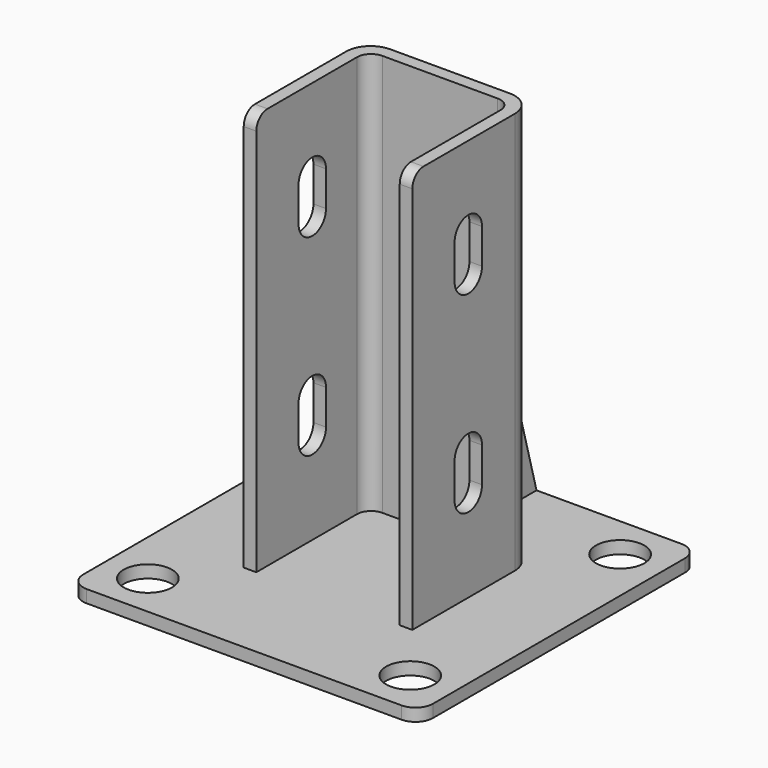
from build123d import *

# Parameters (mm, degrees)
SKETCH_W     = 100
SKETCH_H     = 100
SKETCH_R     = 6.9
PAD_DEPTH    = 3.6
PAD001_DEPTH = 115
POCKET_DEPTH = 74.101
PAD002_DEPTH = 3.6
FILLET_R     = 5
FILLET001_R  = 4
FILLET002_R  = 7


with BuildPart() as part:
    # Sketch → Pad (new body)
    with BuildSketch(Plane.XY):
        Rectangle(SKETCH_W, SKETCH_H)
        with Locations((37.5, 37.5)):
            Circle(SKETCH_R, mode=Mode.SUBTRACT)
        with Locations((-37.5, 37.5)):
            Circle(SKETCH_R, mode=Mode.SUBTRACT)
        with Locations((37.5, -37.5)):
            Circle(SKETCH_R, mode=Mode.SUBTRACT)
        with Locations((-37.5, -37.5)):
            Circle(SKETCH_R, mode=Mode.SUBTRACT)
    extrude(amount=PAD_DEPTH)

    # Sketch001 (on Face10 of Pad) → Pad001 (join)
    with BuildSketch(Plane.XY.offset(3.6)):
        Polygon((-20.5, -20), (-20.5, 20), (20.5, 20), (20.5, -20), (24.1, -20), (24.1, 23.6), (-24.1, 23.6), (-24.1, -20), align=None)
    extrude(amount=PAD001_DEPTH)

    # Sketch002 (on Face15 of Pad001) → Pocket (cut, through all)
    with BuildSketch(Plane.YZ.offset(24.1)):
        with BuildLine():
            ThreePointArc((4.9, 95), (0, 99.9), (-4.9, 95))
            Line((-4.9, 95), (-4.9, 85))
            ThreePointArc((-4.9, 85), (0, 80.1), (4.9, 85))
            Line((4.9, 95), (4.9, 85))
        make_face()
        with BuildLine():
            ThreePointArc((4.9, 40), (0, 44.9), (-4.9, 40))
            Line((-4.9, 40), (-4.9, 30))
            ThreePointArc((-4.9, 30), (0, 25.1), (4.9, 30))
            Line((4.9, 40), (4.9, 30))
        make_face()
    extrude(amount=-POCKET_DEPTH, mode=Mode.SUBTRACT)

    # Sketch003 → Pad002 (join)
    with BuildSketch(Plane.YZ):
        Polygon((23.6, 100), (50, 3.6), (23.6, 3.6), align=None)
    extrude(amount=PAD002_DEPTH)

    # Fillet
    fillet_edges = [part.edges().sort_by_distance(p)[0] for p in [
        (-50, 50, 1.8),
        (-50, -50, 1.8),
        (50, -50, 1.8),
        (50, 50, 1.8),
    ]]
    fillet(fillet_edges, radius=FILLET_R)

    # Fillet001
    fillet001_edges = [part.edges().sort_by_distance(p)[0] for p in [
        (22.3, -20, 118.6),
        (-22.3, -20, 118.6),
        (20.5, 20, 61.1),
        (-20.5, 20, 61.1),
    ]]
    fillet(fillet001_edges, radius=FILLET001_R)

    # Fillet002
    fillet002_edges = [part.edges().sort_by_distance(p)[0] for p in [
        (24.1, 23.6, 61.1),
        (-24.1, 23.6, 61.1),
    ]]
    fillet(fillet002_edges, radius=FILLET002_R)


solid = part.part
